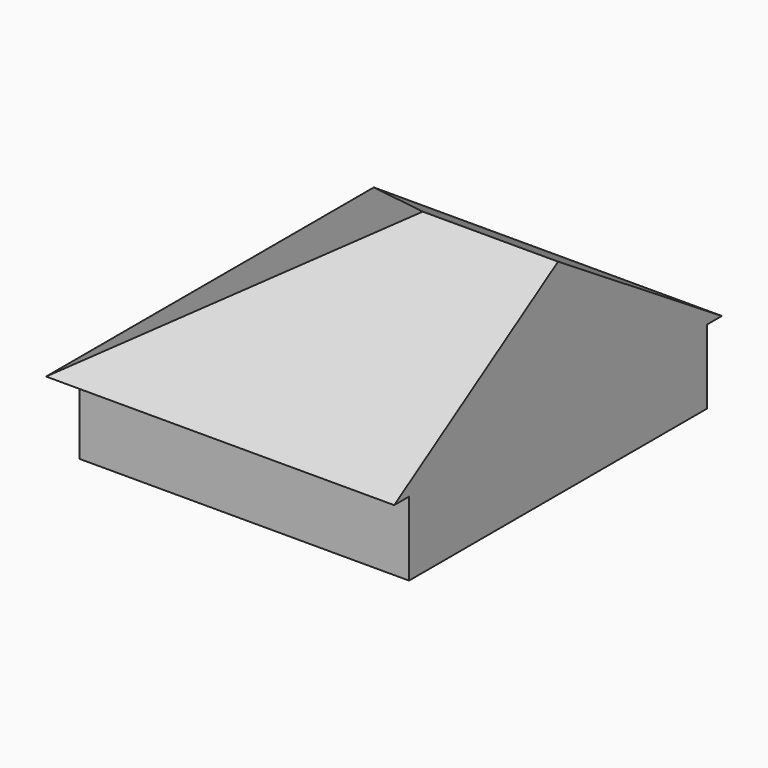
from build123d import *

# Parameters (mm, degrees)
F1_DEPTH      = 2550
F1_DEPTH_BACK = 4870
F3_DEPTH      = 7370.001
F3_DEPTH_BACK = 350.001


with BuildPart() as f1:
    # F0 (on Right) → F1 (new body, two sides)
    with BuildSketch(Plane.YZ) as f1_sk:
        Polygon((0, 1040), (-1625, 0), (-3860, -1430.4), (-3510, -1430.4), (-3510, -2825.0989178658), (-1497.2229003906, -2825.0989178658), (-860, -2825.0989178658), (2955, -2825.0989178658), (3030, -2825.0989178658), (3510, -2825.0989178658), (3510, -1430.4), (3860, -1430.4), (1625, 0), align=None)
    extrude(amount=F1_DEPTH)
    extrude(f1_sk.sketch, amount=-F1_DEPTH_BACK)

    # F2 (on face) → F3 (cut, two sides)
    with BuildSketch(Plane.XZ.offset(3510)) as f3_sk:
        Polygon((0, -2825.0989178658), (-3660, -2825.0989178658), (-4870, -2825.0989178658), (-4870, -1430.4), (-4010, -1430.4), (0, 1040), (0, 1641.8843269348), (-5604.5145988464, 1641.8843269348), (-5604.5145988464, -4045.9384918213), (0, -4045.9384918213), align=None)
        Polygon((-3660, -2825.0989178658), (-3660, -1430.4), (-4010, -1430.4), (-4870, -1430.4), (-4870, -2825.0989178658), align=None)
    extrude(amount=-F3_DEPTH, mode=Mode.SUBTRACT)
    extrude(f3_sk.sketch, amount=F3_DEPTH_BACK, mode=Mode.SUBTRACT)


solid = f1.part
